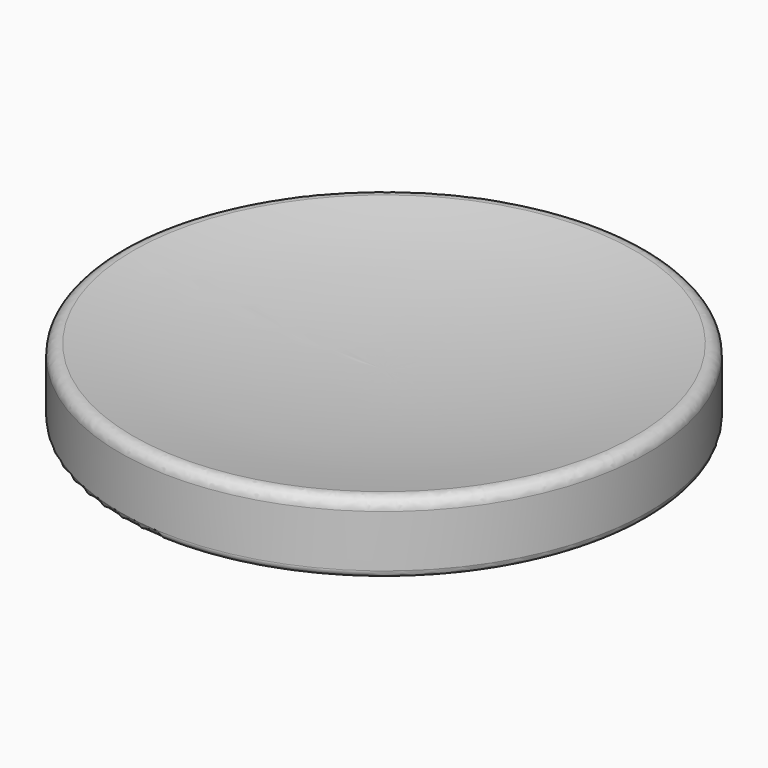
from build123d import *

# Parameters (mm, degrees)
F2_R = 0.2
F3_R = 0.3


with BuildPart() as f1:
    # F0 (on Front) → F1 (revolve)
    with BuildSketch(Plane.XZ):
        with BuildLine():
            ThreePointArc((-7.4560047481, 3.3008563332), (-11.0988060832, 3.4699396302), (-14.7060047481, 4.0053913267))
            Line((-14.7060047481, 4.0053913267), (-14.7060047481, 2.0053913267))
            Line((-14.7060047481, 2.0053913267), (-7.4560047481, 2.0053913267))
            Line((-7.4560047481, 2.0053913267), (-7.4560047481, 3.3008563332))
        make_face()
    revolve(axis=Axis((-7.4560047481, 0, 3.0053913267), (0, 0, -1)))

    # F2
    f2_edges = [f1.edges().sort_by_distance(p)[0] for p in [
        (-0.206005, 0, 2.005391),
    ]]
    fillet(f2_edges, radius=F2_R)

    # F3
    f3_edges = [f1.edges().sort_by_distance(p)[0] for p in [
        (-0.206005, 0, 4.005391),
    ]]
    fillet(f3_edges, radius=F3_R)


solid = f1.part
